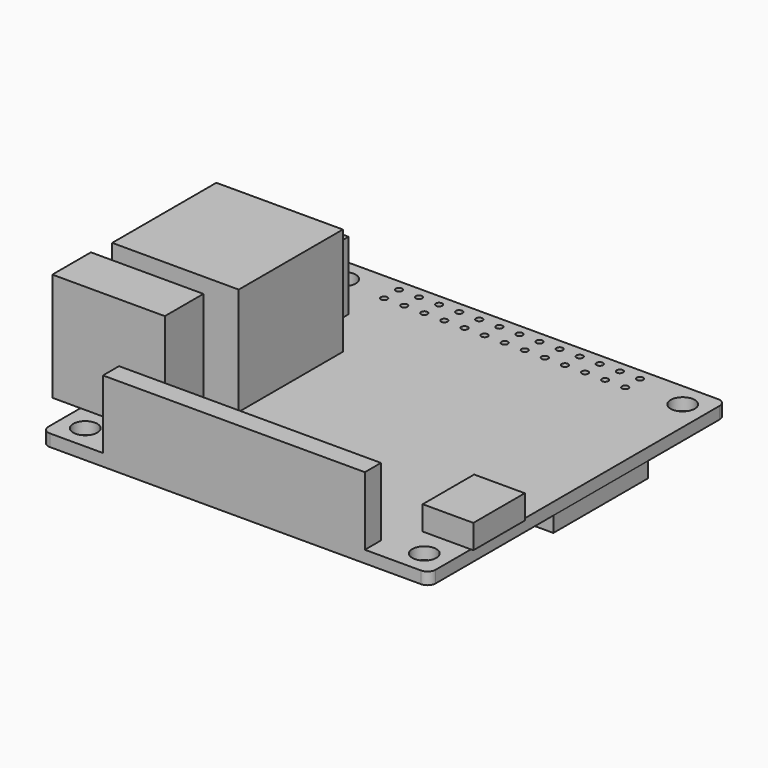
from build123d import *

# Parameters (mm, degrees)
F0_R      = 1.5
F1_DEPTH  = 1.5
F2_W      = 32.6
F2_H      = 2.5
F3_DEPTH  = 8.5
F4_W      = 6
F4_H      = 8
F5_DEPTH  = 3
F6_W      = 8
F6_H      = 3
F7_DEPTH  = 0.3
F8_R      = 0.4
F9_DEPTH  = 1.5
F10_W     = 8
F10_H     = 2.5
F11_DEPTH = 8.5
F12_W     = 3.25
F12_H     = 16.2
F12_W_2   = 12.5
F13_DEPTH = 13.4
F14_W     = 3.5
F14_H     = 6
F14_W_2   = 10.5
F15_DEPTH = 13.5
F16_W     = 14.6
F16_H     = 14.75
F17_DEPTH = 2
F18_W     = 14.75
F18_H     = 2
F19_DEPTH = 0.1


with BuildPart() as f1:
    # F0 (on Top) → F1 (new body)
    with BuildSketch(Plane.XY):
        with BuildLine():
            Line((-23.1, -23.1), (23.1, -23.1))
            ThreePointArc((23.1, -23.1), (23.807107, -22.807107), (24.1, -22.1))
            Line((24.1, -22.1), (24.1, 22.1))
            ThreePointArc((24.1, 22.1), (23.807107, 22.807107), (23.1, 23.1))
            Line((23.1, 23.1), (-23.1, 23.1))
            ThreePointArc((-23.1, 23.1), (-23.807107, 22.807107), (-24.1, 22.1))
            Line((-24.1, 22.1), (-24.1, -22.1))
            ThreePointArc((-24.1, -22.1), (-23.807107, -22.807107), (-23.1, -23.1))
        make_face()
        with Locations((-21.1, -20.1)):
            Circle(F0_R, mode=Mode.SUBTRACT)
        with Locations((21.1, -20.1)):
            Circle(F0_R, mode=Mode.SUBTRACT)
        with Locations((-21.1, 20.1)):
            Circle(F0_R, mode=Mode.SUBTRACT)
        with Locations((21.1, 20.1)):
            Circle(F0_R, mode=Mode.SUBTRACT)
    extrude(amount=F1_DEPTH)

    # F2 (on face) → F3 (join)
    with BuildSketch(Plane.XY.offset(1.5)):
        with Locations((-0.2, -21.85)):
            Rectangle(F2_W, F2_H)
    extrude(amount=F3_DEPTH)

    # F4 (on face) → F5 (join)
    with BuildSketch(Plane.XY.offset(1.5)):
        with Locations((21.1, -12.6)):
            Rectangle(F4_W, F4_H)
    extrude(amount=F5_DEPTH)

    # F6 (on face) → F7 (join)
    with BuildSketch(Plane.YZ.offset(24.1)):
        with Locations((-12.6, 3)):
            Rectangle(F6_W, F6_H)
    extrude(amount=F7_DEPTH)

    # F8 (on face) → F9 (cut, through all)
    with BuildSketch(Plane.XY.offset(1.5)):
        with Locations((-13, 21.7)):
            Circle(F8_R)
        with Locations((-15.5, 21.7)):
            Circle(F8_R)
        with Locations((-10.5, 21.7)):
            Circle(F8_R)
        with Locations((-8, 21.7)):
            Circle(F8_R)
        with Locations((-5.5, 21.7)):
            Circle(F8_R)
        with Locations((-3, 21.7)):
            Circle(F8_R)
        with Locations((-0.5, 21.7)):
            Circle(F8_R)
        with Locations((2, 21.7)):
            Circle(F8_R)
        with Locations((4.5, 21.7)):
            Circle(F8_R)
        with Locations((7, 21.7)):
            Circle(F8_R)
        with Locations((9.5, 21.7)):
            Circle(F8_R)
        with Locations((12, 21.7)):
            Circle(F8_R)
        with Locations((14.5, 21.7)):
            Circle(F8_R)
        with Locations((14.5, 19.4)):
            Circle(F8_R)
        with Locations((12, 19.4)):
            Circle(F8_R)
        with Locations((9.5, 19.4)):
            Circle(F8_R)
        with Locations((7, 19.4)):
            Circle(F8_R)
        with Locations((4.5, 19.4)):
            Circle(F8_R)
        with Locations((2, 19.4)):
            Circle(F8_R)
        with Locations((-0.5, 19.4)):
            Circle(F8_R)
        with Locations((-3, 19.4)):
            Circle(F8_R)
        with Locations((-5.5, 19.4)):
            Circle(F8_R)
        with Locations((-8, 19.4)):
            Circle(F8_R)
        with Locations((-10.5, 19.4)):
            Circle(F8_R)
        with Locations((-13, 19.4)):
            Circle(F8_R)
        with Locations((-15.5, 19.4)):
            Circle(F8_R)
    extrude(amount=-F9_DEPTH, mode=Mode.SUBTRACT)

    # F10 (on face) → F11 (join)
    with BuildSketch(Plane.XY.offset(1.5)):
        with Locations((-20.1, 13.35)):
            Rectangle(F10_W, F10_H)
    extrude(amount=F11_DEPTH)

    # F12 (on face) → F13 (join)
    with BuildSketch(Plane.XY.offset(1.5)):
        with Locations((-25.725, 0)):
            Rectangle(F12_W, F12_H)
        with Locations((-17.85, 0)):
            Rectangle(F12_W_2, F12_H)
    extrude(amount=F13_DEPTH)

    # F14 (on face) → F15 (join)
    with BuildSketch(Plane.XY.offset(1.5)):
        with Locations((-25.85, -14.1)):
            Rectangle(F14_W, F14_H)
        with Locations((-18.85, -14.1)):
            Rectangle(F14_W_2, F14_H)
    extrude(amount=F15_DEPTH)

    # F16 (on face) → F17 (join)
    with BuildSketch(Plane(origin=(0, 0, 0), x_dir=(1, 0, 0), z_dir=(0, 0, -1))):
        with Locations((16.8, -3.725)):
            Rectangle(F16_W, F16_H)
    extrude(amount=F17_DEPTH)

    # F18 (on face) → F19 (cut)
    with BuildSketch(Plane.YZ.offset(24.1)):
        with Locations((3.725, -1)):
            Rectangle(F18_W, F18_H)
    extrude(amount=-F19_DEPTH, mode=Mode.SUBTRACT)


solid = f1.part
